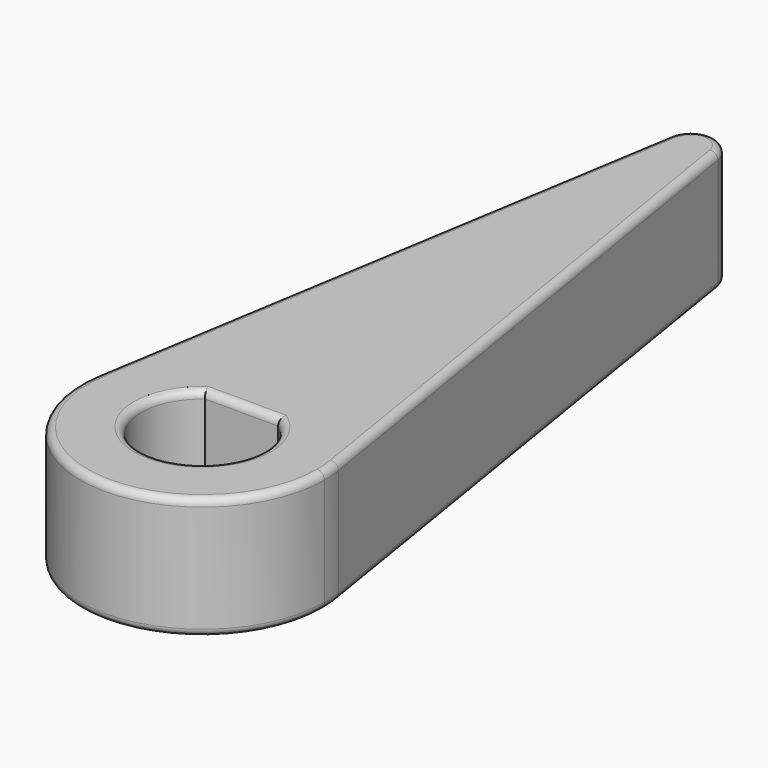
from build123d import *

# Parameters (mm, degrees)
F1_DEPTH = 5
F2_R     = 0.3


with BuildPart() as f1:
    # F0 (on Top) → F1 (new body)
    with BuildSketch(Plane.XY):
        with BuildLine():
            ThreePointArc((-4.935585, 0.8), (0, 5), (4.935585, 0.8))
            Line((4.935585, 0.8), (0.987117, 25.16))
            ThreePointArc((0.987117, 25.16), (0, 26), (-0.987117, 25.16))
            Line((-0.987117, 25.16), (-4.935585, 0.8))
        make_face()
        with BuildLine():
            ThreePointArc((-4.935585, 0.8), (-0.401295, -4.98387), (5, 0))
            ThreePointArc((5, 0), (4.98387, 0.401295), (4.935585, 0.8))
            ThreePointArc((4.935585, 0.8), (0, 5), (-4.935585, 0.8))
        make_face()
        with BuildLine():
            ThreePointArc((1.5, 2), (2.236068, 1.118034), (2.5, 0))
            ThreePointArc((2.5, 0), (-1.118034, -2.236068), (-1.5, 2))
            ThreePointArc((-1.5, 2), (0, 2.5), (1.5, 2))
        make_face(mode=Mode.SUBTRACT)
        with BuildLine():
            Line((-1.5, 2), (1.5, 2))
            ThreePointArc((1.5, 2), (0, 2.5), (-1.5, 2))
        make_face()
    extrude(amount=F1_DEPTH)

    # F2
    f2_edges = [f1.edges().sort_by_distance(p)[0] for p in [
        (-0.401295, -4.98387, 5),
        (4.98387, 0.401295, 5),
        (2.961351, 12.98, 5),
        (0, 26, 5),
        (-2.961351, 12.98, 5),
        (0, -2.5, 5),
        (0, 2, 5),
        (4.98387, 0.401295, 0),
        (2.961351, 12.98, 0),
        (0, 26, 0),
        (-2.961351, 12.98, 0),
        (-0.401295, -4.98387, 0),
        (0, -2.5, 0),
        (0, 2, 0),
    ]]
    fillet(f2_edges, radius=F2_R)


solid = f1.part
